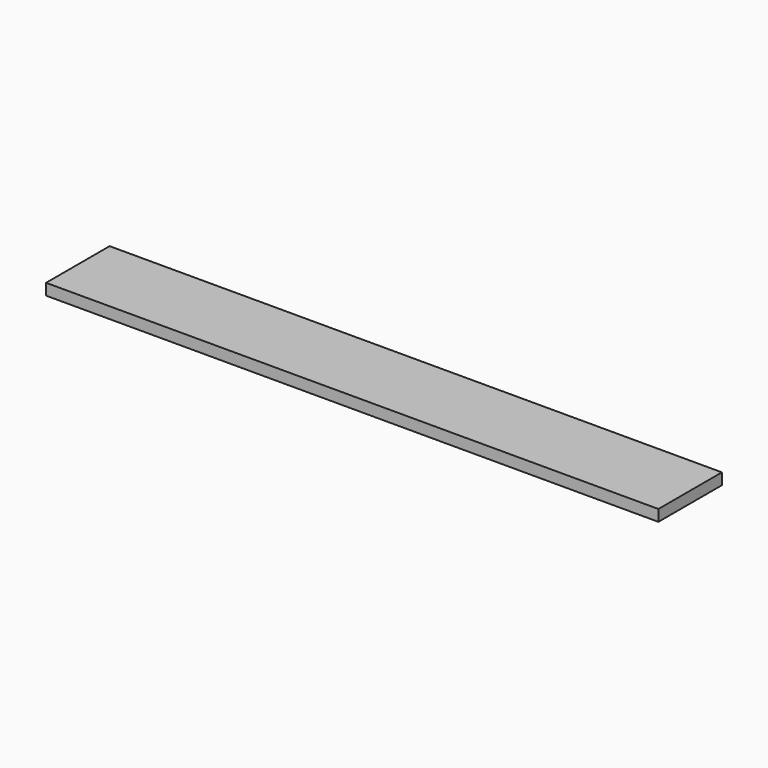
from build123d import *

# Parameters (mm, degrees)
F1_W     = 2743.2
F1_H     = 355.6
F2_DEPTH = 50.8


with BuildPart() as f2:
    # F1 (on offset) → F2 (new body)
    with BuildSketch(Plane.XY.offset(457.2)):
        with Locations((425.943598, -798.235138)):
            Rectangle(F1_W, F1_H)
    extrude(amount=-F2_DEPTH)


solid = f2.part
